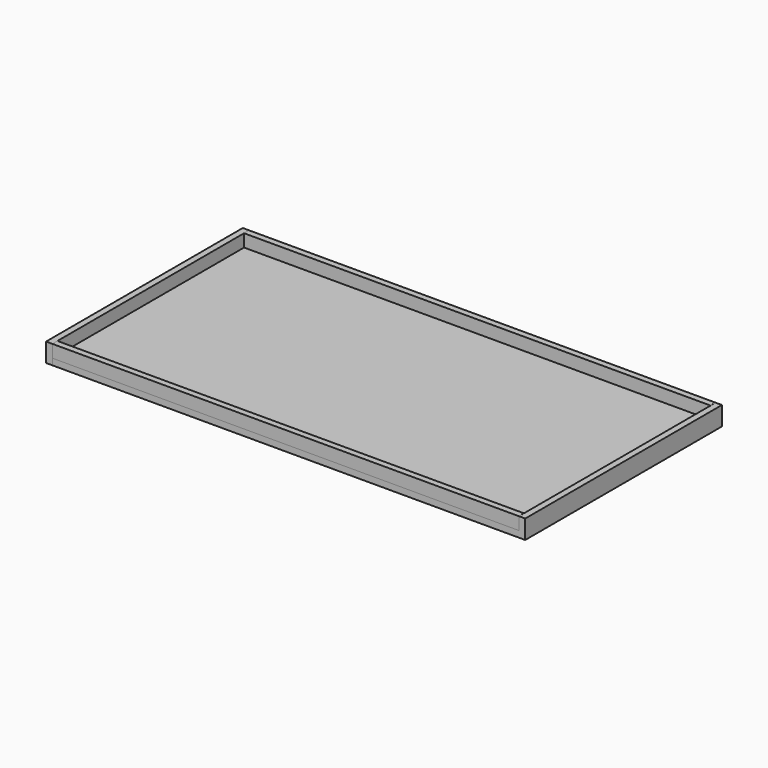
from build123d import *

# Parameters (mm, degrees)
F0_W     = 148
F0_H     = 4
F2_DEPTH = 2
F1_W     = 148
F1_H     = 39
F3_DEPTH = 2
F5_W     = 78
F5_H     = 6
F6_DEPTH = 2
F7_W     = 78
F7_H     = 6
F8_DEPTH = 2


with BuildPart() as f2:
    # F0 (on Front) → F2 (new body)
    with BuildSketch(Plane.XZ):
        with Locations((5.578948, 2)):
            Rectangle(F0_W, F0_H)
    extrude(amount=-F2_DEPTH)


with BuildPart() as f3:
    # F1 (on Top) → F3 (new body)
    with BuildSketch(Plane.XY):
        with Locations((5.604558, 19.5)):
            Rectangle(F1_W, F1_H)
    extrude(amount=-F3_DEPTH)

    # F4: F3, F2 across face


with BuildPart() as f3_1:
    add(f3.part)
    add(f3.part.mirror(Plane(origin=(5.604558, 39, -1), x_dir=(-1, 0, 0), z_dir=(0, 1, 0))))
    add(f2.part.mirror(Plane(origin=(5.604558, 39, -1), x_dir=(-1, 0, 0), z_dir=(0, 1, 0))))

    # F7 (on face) → F8 (join)
    with BuildSketch(Plane.YZ.offset(79.604558)):
        with Locations((39, 1)):
            Rectangle(F7_W, F7_H)
    extrude(amount=F8_DEPTH)


with BuildPart() as f6:
    # F5 (on face) → F6 (new body)
    with BuildSketch(Plane(origin=(-68.395442, 0, 0), x_dir=(0, -1, 0), z_dir=(-1, 0, 0))):
        with Locations((-39, 1)):
            Rectangle(F5_W, F5_H)
    extrude(amount=F6_DEPTH)


solid = Compound([f2.part, f3_1.part, f6.part])
